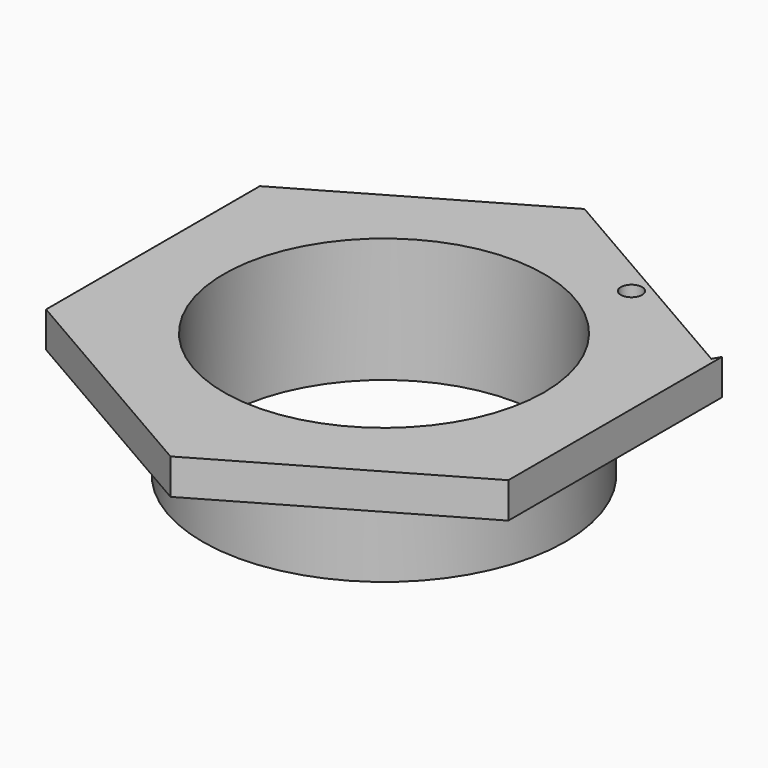
from build123d import *

# Parameters (mm, degrees)
SKETCH_R      = 9
SKETCH_R_2    = 0.6
PAD_DEPTH     = 2
SKETCH001_R   = 10.2
SKETCH001_R_2 = 9
PAD001_DEPTH  = 5


with BuildPart() as part:
    # Sketch → Pad (new body)
    with BuildSketch(Plane.XY):
        Polygon((-0.50397, 14.713397), (-12.984903, 7.508821), (-12.99, -7.5), (0, -14.99967), (12.99, -7.5), (12.99, 7.5), (12.74, 7.066987), align=None)
        Circle(SKETCH_R, mode=Mode.SUBTRACT)
        with Locations((5.975274, 9.914229)):
            Circle(SKETCH_R_2, mode=Mode.SUBTRACT)
    extrude(amount=PAD_DEPTH)

    # Sketch001 (on Face10 of Pad) → Pad001 (join)
    with BuildSketch(Plane(origin=(0, 0, 0), x_dir=(1, 0, 0), z_dir=(0, 0, -1))):
        Circle(SKETCH001_R)
        Circle(SKETCH001_R_2, mode=Mode.SUBTRACT)
    extrude(amount=PAD001_DEPTH)


solid = part.part
